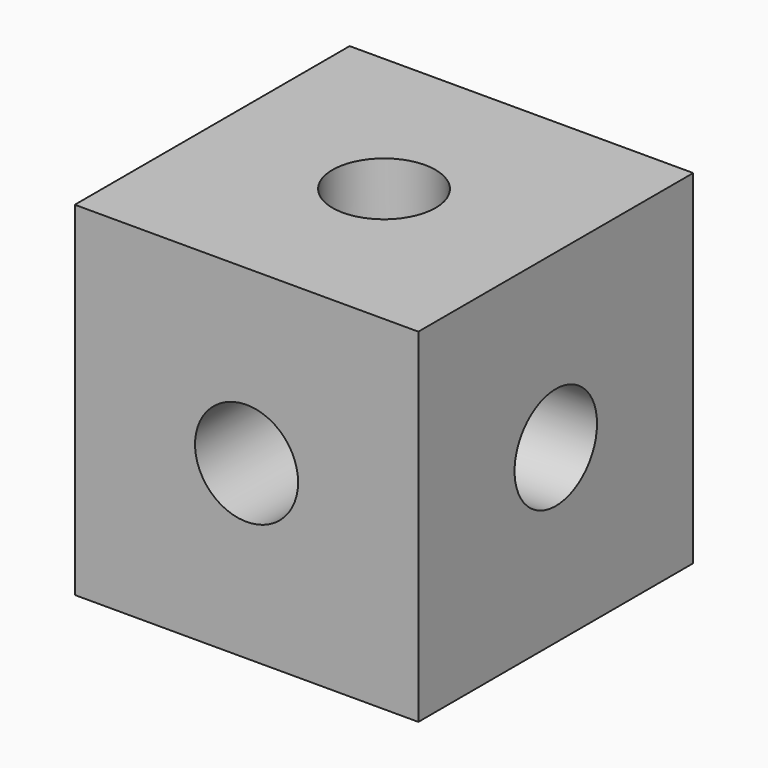
from build123d import *

# Parameters (mm, degrees)
F0_W     = 10
F0_H     = 10
F0_R     = 1.5
F1_DEPTH = 10
F2_R     = 1.5
F3_DEPTH = 12.5
F4_R     = 1.5
F5_DEPTH = 12.5


with BuildPart() as f1:
    # F0 (on Front) → F1 (new body)
    with BuildSketch(Plane.XZ):
        Rectangle(F0_W, F0_H)
        Circle(F0_R, mode=Mode.SUBTRACT)
    extrude(amount=F1_DEPTH)

    # F2 (on Top) → F3 (cut, symmetric)
    with BuildSketch(Plane.XY):
        with Locations((0, -5)):
            Circle(F2_R)
    extrude(amount=F3_DEPTH, both=True, mode=Mode.SUBTRACT)

    # F4 (on Right) → F5 (cut, symmetric)
    with BuildSketch(Plane.YZ):
        with Locations((-5, 0)):
            Circle(F4_R)
    extrude(amount=F5_DEPTH, both=True, mode=Mode.SUBTRACT)


solid = f1.part
